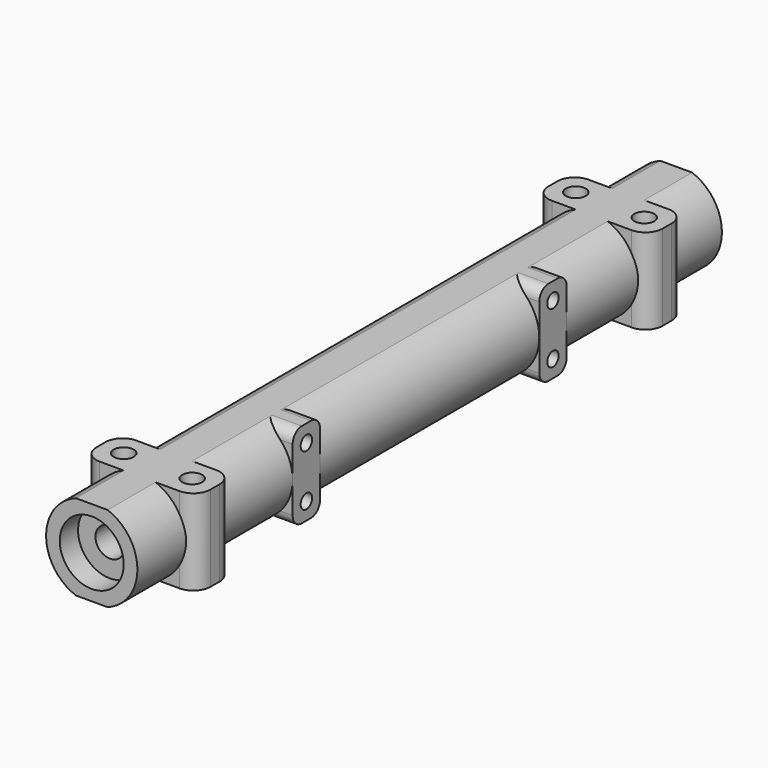
from build123d import *

# Parameters (mm, degrees)
CYLINDER547_R     = 1.5
CYLINDER547_DEPTH = 6
BOX342_W          = 20
BOX342_H          = 128
BOX342_DEPTH      = 1
BOX341_W          = 20
BOX341_H          = 128
BOX341_DEPTH      = 1
CYLINDER149_R     = 2.8
CYLINDER149_DEPTH = 25
CYLINDER150_R     = 2.8
CYLINDER150_DEPTH = 25
CYLINDER541_R     = 1.75
CYLINDER541_DEPTH = 15
CYLINDER540_R     = 1.75
CYLINDER540_DEPTH = 15
CYLINDER542_R     = 1.75
CYLINDER542_DEPTH = 15
CYLINDER543_R     = 1.75
CYLINDER543_DEPTH = 15
CYLINDER151_R     = 1.25
CYLINDER151_DEPTH = 10
CYLINDER548_R     = 1.25
CYLINDER548_DEPTH = 10
CYLINDER549_R     = 1.25
CYLINDER549_DEPTH = 10
CYLINDER550_R     = 1.25
CYLINDER550_DEPTH = 10
CYLINDER545_R     = 5.6
CYLINDER545_DEPTH = 4
CYLINDER546_R     = 5.6
CYLINDER546_DEPTH = 4
CYLINDER544_R     = 2.55
CYLINDER544_DEPTH = 128
BOX343_W          = 5.5
BOX343_H          = 6
BOX343_DEPTH      = 15
BOX344_W          = 5.5
BOX344_H          = 6
BOX344_DEPTH      = 15
FILLET132_R       = 2
BOX340_W          = 20
BOX340_H          = 8
BOX340_DEPTH      = 15
FILLET131_R       = 3
BOX339_W          = 20
BOX339_H          = 8
BOX339_DEPTH      = 15
FILLET130_R       = 3
CYLINDER142_R     = 8
CYLINDER142_DEPTH = 128


with BuildPart() as cylinder642:
    # Cylinder547 → Cylinder547 (new body)
    with BuildSketch(Plane.XY.offset(-7.5)):
        Circle(CYLINDER547_R)
    extrude(amount=CYLINDER547_DEPTH)


with BuildPart() as cube413:
    # Box342 → Box342 (new body)
    with BuildSketch(Plane(origin=(-10, -64, 7.5), x_dir=(1, 0, 0), z_dir=(0, 0, 1))):
        with Locations((10, 64)):
            Rectangle(BOX342_W, BOX342_H)
    extrude(amount=BOX342_DEPTH)


with BuildPart() as fusion127:
    # Box341 → Box341 (new body)
    with BuildSketch(Plane(origin=(-10, -64, -8.5), x_dir=(1, 0, 0), z_dir=(0, 0, 1))):
        with Locations((10, 64)):
            Rectangle(BOX341_W, BOX341_H)
    extrude(amount=BOX341_DEPTH)

    # Fusion127: union Cube413
    add(cube413.part)


with BuildPart() as cylinder149:
    # Cylinder149 → Cylinder149 (new body)
    with BuildSketch(Plane(origin=(0, -30, 0), x_dir=(1, 0, 0), z_dir=(0, 1, 0))):
        Circle(CYLINDER149_R)
    extrude(amount=CYLINDER149_DEPTH)


with BuildPart() as fusion465:
    # Cylinder150 → Cylinder150 (new body)
    with BuildSketch(Plane(origin=(0, 5, 0), x_dir=(1, 0, 0), z_dir=(0, 1, 0))):
        Circle(CYLINDER150_R)
    extrude(amount=CYLINDER150_DEPTH)

    # Fusion465: union Cylinder149
    add(cylinder149.part)


with BuildPart() as cylinder636:
    # Cylinder541 → Cylinder541 (new body)
    with BuildSketch(Plane(origin=(13.5, -49.5, 13), x_dir=(1, 0, 0), z_dir=(0, 0, 1))):
        Circle(CYLINDER541_R)
    extrude(amount=CYLINDER541_DEPTH)


with BuildPart() as fusion461:
    # Cylinder540 → Cylinder540 (new body)
    with BuildSketch(Plane(origin=(13.5, 49.5, 13), x_dir=(1, 0, 0), z_dir=(0, 0, 1))):
        Circle(CYLINDER540_R)
    extrude(amount=CYLINDER540_DEPTH)

    # Fusion461: union Cylinder636
    add(cylinder636.part)


with BuildPart() as cylinder637:
    # Cylinder542 → Cylinder542 (new body)
    with BuildSketch(Plane(origin=(13.5, -49.5, 13), x_dir=(1, 0, 0), z_dir=(0, 0, 1))):
        Circle(CYLINDER542_R)
    extrude(amount=CYLINDER542_DEPTH)


with BuildPart() as fusion463:
    # Cylinder543 → Cylinder543 (new body)
    with BuildSketch(Plane(origin=(13.5, 49.5, 13), x_dir=(1, 0, 0), z_dir=(0, 0, 1))):
        Circle(CYLINDER543_R)
    extrude(amount=CYLINDER543_DEPTH)

    # Fusion462: union Cylinder637
    add(cylinder637.part)


with BuildPart() as fusion463_1:
    # Fusion462 placement: moved
    add(fusion463.part.moved(Location((-12, 0, 0))))

    # Fusion463: union Fusion461
    add(fusion461.part)


with BuildPart() as fusion463_2:
    # Fusion463 placement: moved
    add(fusion463_1.part.moved(Location((-7.5, 0, -20.5))))


with BuildPart() as cylinder151:
    # Cylinder151 → Cylinder151 (new body)
    with BuildSketch(Plane(origin=(0, -27, 4.5), x_dir=(0, 0, -1), z_dir=(1, 0, 0))):
        Circle(CYLINDER151_R)
    extrude(amount=CYLINDER151_DEPTH)


with BuildPart() as fusion468:
    # Cylinder548 → Cylinder548 (new body)
    with BuildSketch(Plane(origin=(0, -27, -4.5), x_dir=(0, 0, -1), z_dir=(1, 0, 0))):
        Circle(CYLINDER548_R)
    extrude(amount=CYLINDER548_DEPTH)

    # Fusion468: union Cylinder151
    add(cylinder151.part)


with BuildPart() as cylinder644:
    # Cylinder549 → Cylinder549 (new body)
    with BuildSketch(Plane(origin=(0, -27, 4.5), x_dir=(0, 0, -1), z_dir=(1, 0, 0))):
        Circle(CYLINDER549_R)
    extrude(amount=CYLINDER549_DEPTH)


with BuildPart() as fusion470:
    # Cylinder550 → Cylinder550 (new body)
    with BuildSketch(Plane(origin=(0, -27, -4.5), x_dir=(0, 0, -1), z_dir=(1, 0, 0))):
        Circle(CYLINDER550_R)
    extrude(amount=CYLINDER550_DEPTH)

    # Fusion469: union Cylinder644
    add(cylinder644.part)


with BuildPart() as fusion470_1:
    # Fusion469 placement: moved
    add(fusion470.part.moved(Location((0, 54, 0))))

    # Fusion470: union Fusion468
    add(fusion468.part)


with BuildPart() as fusion470_2:
    # Fusion470 placement: moved
    add(fusion470_1.part.moved(Location((-2, 0, 0))))


with BuildPart() as cylinder640:
    # Cylinder545 → Cylinder545 (new body)
    with BuildSketch(Plane(origin=(0, -64, 0), x_dir=(1, 0, 0), z_dir=(0, 1, 0))):
        Circle(CYLINDER545_R)
    extrude(amount=CYLINDER545_DEPTH)


with BuildPart() as fusion124:
    # Cylinder546 → Cylinder546 (new body)
    with BuildSketch(Plane(origin=(0, 60, 0), x_dir=(1, 0, 0), z_dir=(0, 1, 0))):
        Circle(CYLINDER546_R)
    extrude(amount=CYLINDER546_DEPTH)

    # Fusion124: union Cylinder640
    add(cylinder640.part)


with BuildPart() as fusion464:
    # Cylinder544 → Cylinder544 (new body)
    with BuildSketch(Plane(origin=(0, -64, 0), x_dir=(1, 0, 0), z_dir=(0, 1, 0))):
        Circle(CYLINDER544_R)
    extrude(amount=CYLINDER544_DEPTH)

    # Fusion464: union Fusion124
    add(fusion124.part)


with BuildPart() as cube414:
    # Box343 → Box343 (new body)
    with BuildSketch(Plane(origin=(2.5, -30, -7.5), x_dir=(1, 0, 0), z_dir=(0, 0, 1))):
        with Locations((2.75, 3)):
            Rectangle(BOX343_W, BOX343_H)
    extrude(amount=BOX343_DEPTH)


with BuildPart() as fillet132:
    # Box344 → Box344 (new body)
    with BuildSketch(Plane(origin=(2.5, 24, -7.5), x_dir=(1, 0, 0), z_dir=(0, 0, 1))):
        with Locations((2.75, 3)):
            Rectangle(BOX344_W, BOX344_H)
    extrude(amount=BOX344_DEPTH)

    # Fusion466: union Cube414
    add(cube414.part)

    # Fillet132
    fillet132_edges = [fillet132.edges().sort_by_distance(p)[0] for p in [
        (5.25, 24, -7.5),
        (5.25, 24, 7.5),
        (5.25, 30, -7.5),
        (5.25, 30, 7.5),
        (5.25, -30, -7.5),
        (5.25, -30, 7.5),
        (5.25, -24, -7.5),
        (5.25, -24, 7.5),
    ]]
    fillet(fillet132_edges, radius=FILLET132_R)


with BuildPart() as fillet131:
    # Box340 → Box340 (new body)
    with BuildSketch(Plane(origin=(-10, -53.5, -7.5), x_dir=(1, 0, 0), z_dir=(0, 0, 1))):
        with Locations((10, 4)):
            Rectangle(BOX340_W, BOX340_H)
    extrude(amount=BOX340_DEPTH)

    # Fillet131
    fillet131_edges = [fillet131.edges().sort_by_distance(p)[0] for p in [
        (-10, -53.5, 0),
        (-10, -45.5, 0),
        (10, -53.5, 0),
        (10, -45.5, 0),
    ]]
    fillet(fillet131_edges, radius=FILLET131_R)


with BuildPart() as fillet130:
    # Box339 → Box339 (new body)
    with BuildSketch(Plane(origin=(-10, -53.5, -7.5), x_dir=(1, 0, 0), z_dir=(0, 0, 1))):
        with Locations((10, 4)):
            Rectangle(BOX339_W, BOX339_H)
    extrude(amount=BOX339_DEPTH)

    # Fillet130
    fillet130_edges = [fillet130.edges().sort_by_distance(p)[0] for p in [
        (-10, -53.5, 0),
        (-10, -45.5, 0),
        (10, -53.5, 0),
        (10, -45.5, 0),
    ]]
    fillet(fillet130_edges, radius=FILLET130_R)


with BuildPart() as fillet130_1:
    # Fillet130 placement: moved
    add(fillet130.part.moved(Location((0, 99, 0))))


with BuildPart() as axle_front_wide:
    # Cylinder142 → Cylinder142 (new body)
    with BuildSketch(Plane(origin=(0, -64, 0), x_dir=(1, 0, 0), z_dir=(0, 1, 0))):
        Circle(CYLINDER142_R)
    extrude(amount=CYLINDER142_DEPTH)

    # Fusion126: union Fillet131, Fillet130
    add(fillet131.part)
    add(fillet130_1.part)

    # Fusion467: union Fillet132
    add(fillet132.part)

    # Cut359: cut Fusion464
    add(fusion464.part, mode=Mode.SUBTRACT)

    # Cut360: cut Fusion470
    add(fusion470_2.part, mode=Mode.SUBTRACT)

    # Cut047: cut Fusion463
    add(fusion463_2.part, mode=Mode.SUBTRACT)

    # Cut048: cut Fusion465
    add(fusion465.part, mode=Mode.SUBTRACT)

    # Cut049: cut Fusion127
    add(fusion127.part, mode=Mode.SUBTRACT)

    # Cut050: cut Cylinder642
    add(cylinder642.part, mode=Mode.SUBTRACT)


with BuildPart() as axle_front_wide_1:
    # Cut050 placement: moved
    add(axle_front_wide.part.moved(Location((450, 31, -47))))


solid = axle_front_wide_1.part
